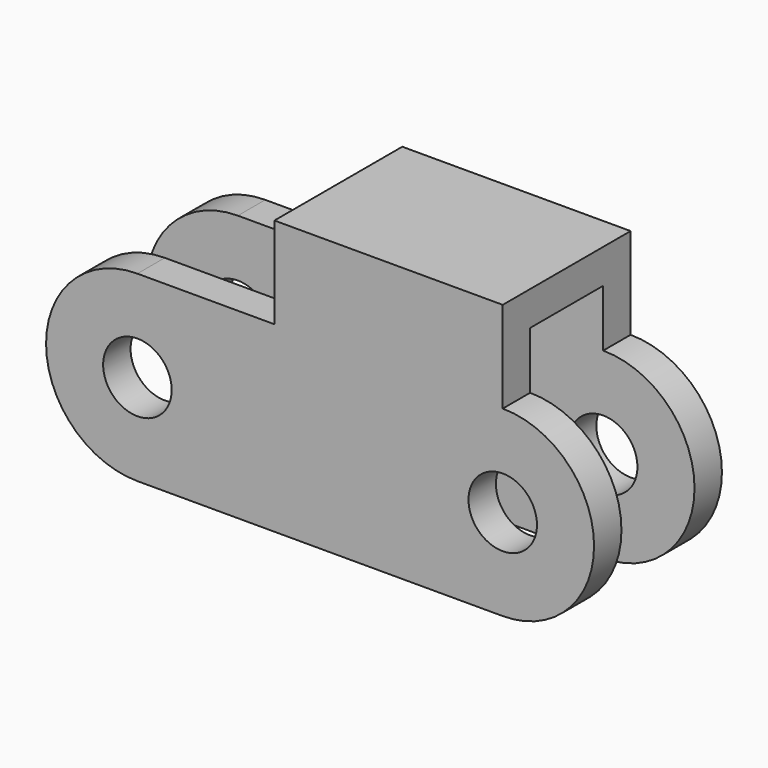
from build123d import *

# Parameters (mm, degrees)
F0_W     = 20
F0_H     = 8
F0_R     = 3
F1_DEPTH = 7
F2_W     = 8
F2_H     = 26
F3_DEPTH = 75.84801


with BuildPart() as f1:
    # F0 (on Front) → F1 (new body, symmetric)
    with BuildSketch(Plane.XZ):
        with Locations((-10, 12)):
            Rectangle(F0_W, F0_H)
        with BuildLine():
            ThreePointArc((-32, 8), (-40, 0), (-32, -8))
            Line((-32, -8), (0, -8))
            ThreePointArc((0, -8), (8, 0), (0, 8))
            Line((0, 8), (-20, 8))
            Line((-20, 8), (-32, 8))
        make_face()
        with Locations((-32, 0)):
            Circle(F0_R, mode=Mode.SUBTRACT)
        Circle(F0_R, mode=Mode.SUBTRACT)
    extrude(amount=F1_DEPTH, both=True)

    # F2 (on Right) → F3 (cut, symmetric)
    with BuildSketch(Plane.YZ):
        Rectangle(F2_W, F2_H)
    extrude(amount=F3_DEPTH, both=True, mode=Mode.SUBTRACT)


solid = f1.part
